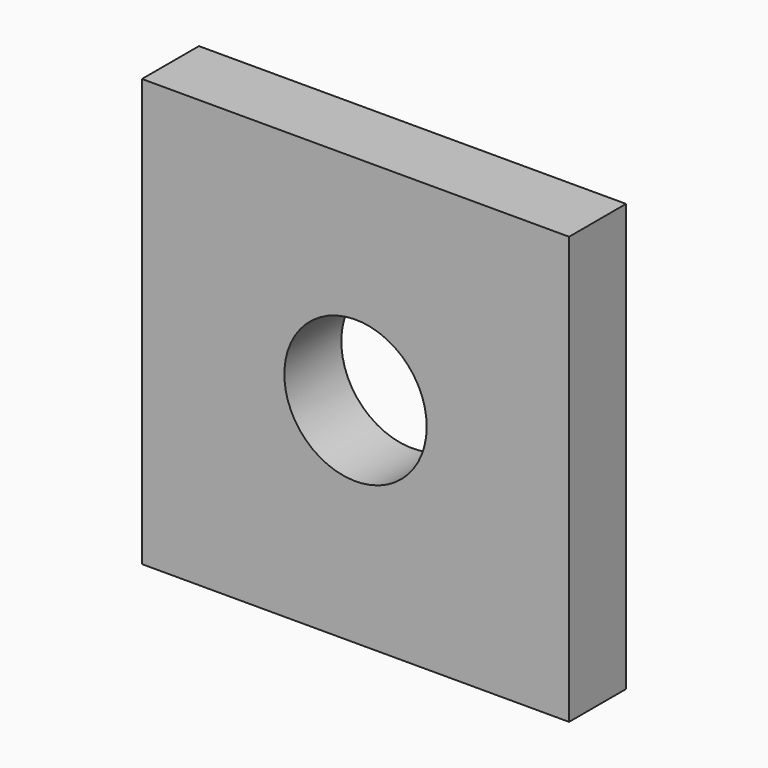
from build123d import *

# Parameters (mm, degrees)
F0_W     = 30
F0_H     = 30
F0_R     = 5
F1_DEPTH = 5


with BuildPart() as f1:
    # F0 (on Front) → F1 (new body)
    with BuildSketch(Plane.XZ):
        Rectangle(F0_W, F0_H)
        Circle(F0_R, mode=Mode.SUBTRACT)
    extrude(amount=-F1_DEPTH)


solid = f1.part
